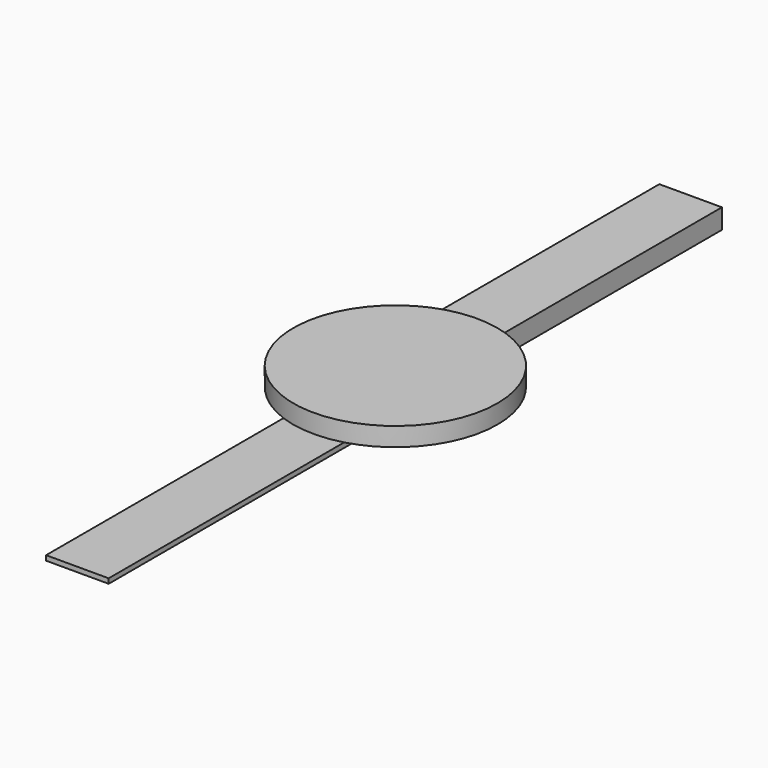
from build123d import *

# Parameters (mm, degrees)
F0_R          = 138.6669495236
F1_DEPTH      = 25.4
F2_W          = 85.052728653
F2_H          = 27.0034535788
F3_DEPTH      = 508
F3_DEPTH_BACK = 25.4
F4_DEPTH      = 508


with BuildPart() as f1:
    # F0 (on Top) → F1 (new body)
    with BuildSketch(Plane.XY):
        Circle(F0_R)
        Circle(F0_R)
    extrude(amount=F1_DEPTH)

    # F2 (on Front) → F3 (join, two sides)
    with BuildSketch(Plane.XZ) as f3_sk:
        with Locations((-5.2903704345, 6.888640346)):
            Rectangle(F2_W, F2_H)
    extrude(amount=-F3_DEPTH)
    extrude(f3_sk.sketch, amount=F3_DEPTH_BACK)

    # F4 (add): a face of the model
    f4_faces = [f1.faces().sort_by_distance(p)[0] for p in [
        (-5.2903704345, -25.4, -3.3065432217),
    ]]
    extrude(f4_faces, amount=F4_DEPTH)


solid = f1.part
